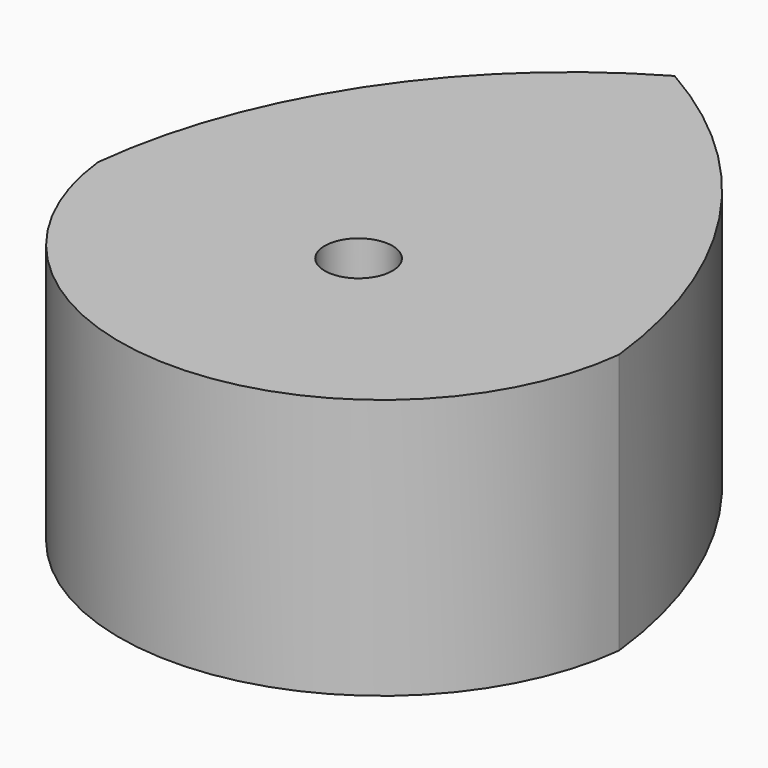
from build123d import *

# Parameters (mm, degrees)
F1_DEPTH = 25.4


with BuildPart() as f1:
    # F0 (on Top) → F1 (new body)
    with BuildSketch(Plane.XY):
        with BuildLine():
            ThreePointArc((-3.302, 0), (0, 3.302), (3.302, 0))
            Line((3.302, 0), (25.4, 0))
            ThreePointArc((25.4, 0), (17.323909, 22.305634), (0, 38.512015))
            ThreePointArc((0, 38.512015), (-17.323909, 22.305634), (-25.4, 0))
            Line((-25.4, 0), (-3.302, 0))
        make_face()
        with BuildLine():
            Line((25.4, 0), (3.302, 0))
            ThreePointArc((3.302, 0), (0, -3.302), (-3.302, 0))
            Line((-3.302, 0), (-25.4, 0))
            ThreePointArc((-25.4, 0), (0, -22.728607), (25.4, 0))
        make_face()
    extrude(amount=F1_DEPTH)


solid = f1.part
